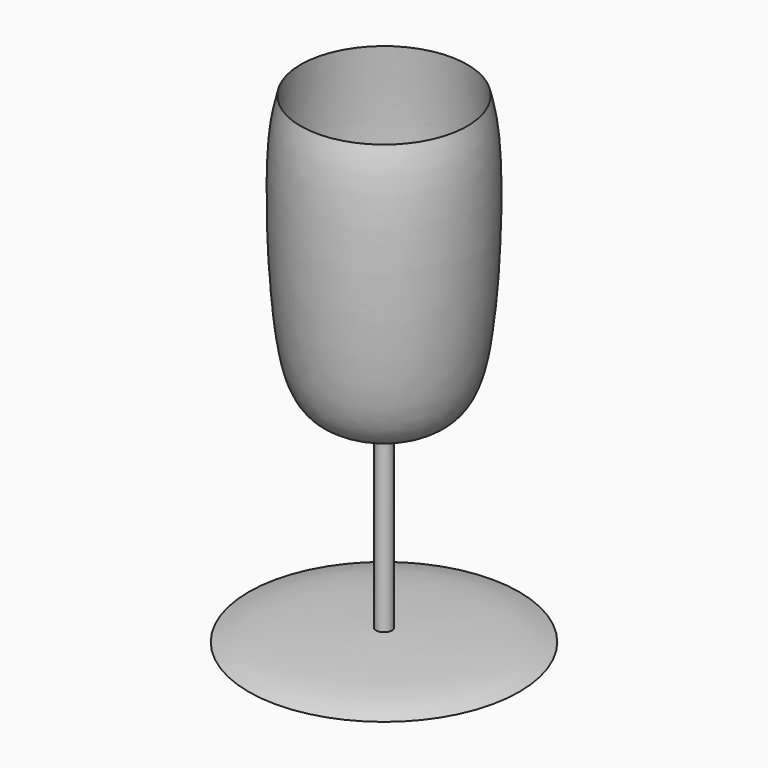
from build123d import *


with BuildPart() as f1:
    # F0 (on Front) → F1 (revolve)
    with BuildSketch(Plane.XZ):
        with BuildLine():
            Line((-38.1, 0), (0, 0))
            Line((0, 0), (0, 58.264631778))
            add(Edge.make_bspline(
                [(-23.4710089862, 135.4855149984), (-24.3050461219, 123.298564458), (-25.8314929651, 100.9941233426), (-20.0150943252, 78.3030875234), (-19.9154303032, 58.1757524202), (-6.7113830807, 58.2346799563), (0, 58.264631778)],
                knots=[0, 0, 0, 0, 0.3119533765, 0.5709341065, 0.7819134141, 1, 1, 1, 1], degree=3))
            add(Edge.make_bspline(
                [(-2.222500043, 52.895501256), (-7.6653749918, 54.0423091568), (-19.2846614375, 56.4904803205), (-25.3814762522, 76.8776520899), (-26.561837782, 123.2420421338), (-24.2494984709, 132.4017418389), (-23.4710089862, 135.4855149984)],
                knots=[0, 0, 0, 0, 0.2103065214, 0.448956064, 0.8144814181, 1, 1, 1, 1], degree=3))
            Line((-2.222500043, 52.895501256), (-2.222500043, 3.5560000688))
            add(Edge.make_bspline(
                [(-38.1, 0), (-35.7458647523, 0.7343486497), (-29.1632607791, 2.7877252958), (-12.7596749737, 3.2555094569), (-2.222500043, 3.5560000688)],
                knots=[0, 0, 0, 0, 0.3576297856, 1, 1, 1, 1], degree=3))
        make_face()
    revolve(axis=Axis((0, 0, 29.132315889), (0, 0, -1)))


solid = f1.part
